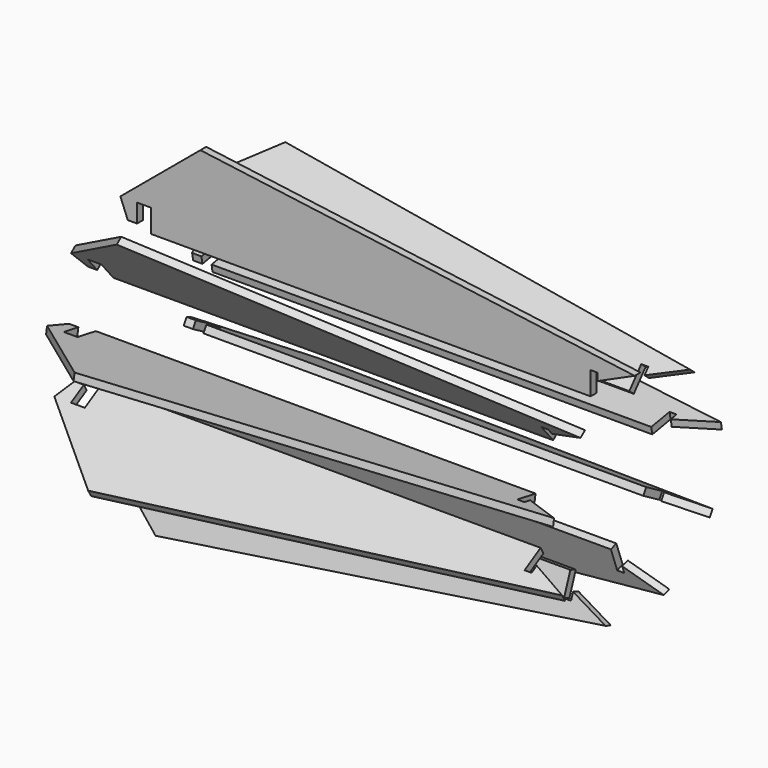
from build123d import *

# Parameters (mm, degrees)
F1_DEPTH = 4.953
F4_COUNT = 9


with BuildPart() as f1:
    # F0 (on Front) → F1 (new body)
    with BuildSketch(Plane.XZ):
        Polygon((-6.35, 0), (0, 0), (0, 12.7), (9.4615, 12.7), (9.4615, -3.175), (310.9595, -3.175), (310.9595, 12.7), (315.7855, 12.7), (315.7855, 7.62), (341.1855, 19.05), (43.434, 58.42), (0, 22.225), (-11.43, 12.7), align=None)
    extrude(amount=F1_DEPTH)


with BuildPart() as f4_1:
    # F4: instance of F1
    add(f1.part.rotate(Axis((9.4615, -2.54, -53.975), (-1, 0, 0)), 1 * 360 / F4_COUNT))


with BuildPart() as f4_2:
    # F4: instance of F1
    add(f1.part.rotate(Axis((9.4615, -2.54, -53.975), (-1, 0, 0)), 2 * 360 / F4_COUNT))


with BuildPart() as f4_3:
    # F4: instance of F1
    add(f1.part.rotate(Axis((9.4615, -2.54, -53.975), (-1, 0, 0)), 3 * 360 / F4_COUNT))


with BuildPart() as f4_4:
    # F4: instance of F1
    add(f1.part.rotate(Axis((9.4615, -2.54, -53.975), (-1, 0, 0)), 4 * 360 / F4_COUNT))


with BuildPart() as f4_5:
    # F4: instance of F1
    add(f1.part.rotate(Axis((9.4615, -2.54, -53.975), (-1, 0, 0)), 5 * 360 / F4_COUNT))


with BuildPart() as f4_6:
    # F4: instance of F1
    add(f1.part.rotate(Axis((9.4615, -2.54, -53.975), (-1, 0, 0)), 6 * 360 / F4_COUNT))


with BuildPart() as f4_7:
    # F4: instance of F1
    add(f1.part.rotate(Axis((9.4615, -2.54, -53.975), (-1, 0, 0)), 7 * 360 / F4_COUNT))


with BuildPart() as f4_8:
    # F4: instance of F1
    add(f1.part.rotate(Axis((9.4615, -2.54, -53.975), (-1, 0, 0)), 8 * 360 / F4_COUNT))


solid = Compound([f1.part, f4_1.part, f4_2.part, f4_3.part, f4_4.part, f4_5.part, f4_6.part, f4_7.part, f4_8.part])
